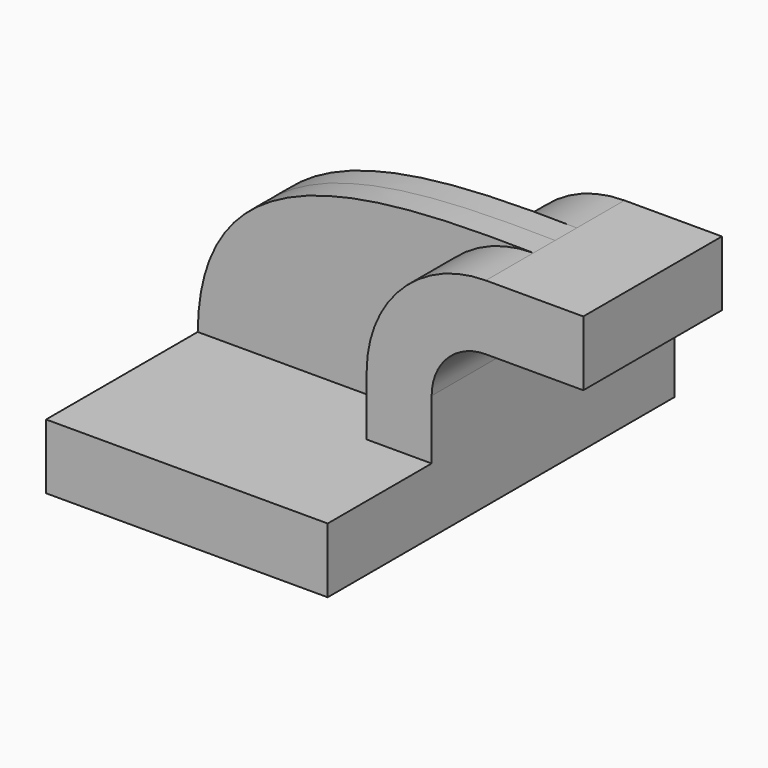
from build123d import *

# Parameters (mm, degrees)
F1_DEPTH = 63.5
F0_W     = 25.4
F0_H     = 19.05
F2_DEPTH = 25.4
F3_DEPTH = 7.9375


with BuildPart() as f1:
    # F0 (on Front) → F1 (new body, symmetric)
    with BuildSketch(Plane.XZ):
        Polygon((22.225, 9.525), (-41.275, 9.525), (-41.275, -9.525), (41.275, -9.525), (41.275, 9.525), align=None)
    extrude(amount=F1_DEPTH, both=True)

    # F0 (on Front) → F2 (join, symmetric)
    with BuildSketch(Plane.XZ):
        with BuildLine():
            Line((22.225, 27.0002), (22.225, 9.525))
            Line((22.225, 9.525), (41.275, 9.525))
            Line((41.275, 9.525), (41.275, 27.0002))
            ThreePointArc((41.275, 27.0002), (45.9246798487, 38.2255201513), (57.15, 42.8752))
            Line((57.15, 42.8752), (60.325, 42.8752))
            Line((60.325, 42.8752), (60.325, 61.9252))
            Line((60.325, 61.9252), (57.15, 61.9252))
            ThreePointArc((57.15, 61.9252), (32.4542956671, 51.6959043329), (22.225, 27.0002))
        make_face()
        with Locations((73.025, 52.4002)):
            Rectangle(F0_W, F0_H)
    extrude(amount=F2_DEPTH, both=True)

    # F0 (on Front) → F3 (join, symmetric)
    with BuildSketch(Plane.XZ):
        with BuildLine():
            add(Edge.make_bspline(
                [(-41.275, 9.525), (-40.7656654716, 59.7505532205), (9.2027997598, 62.7891719341), (57.15, 61.9252)],
                knots=[0, 0, 0, 0, 111.5045361635, 111.5045361635, 111.5045361635, 111.5045361635], degree=3))
            Line((-41.275, 9.525), (22.225, 9.525))
            Line((22.225, 9.525), (22.225, 27.0002))
            ThreePointArc((22.225, 27.0002), (32.4542956671, 51.6959043329), (57.15, 61.9252))
        make_face()
    extrude(amount=F3_DEPTH, both=True)


solid = f1.part
